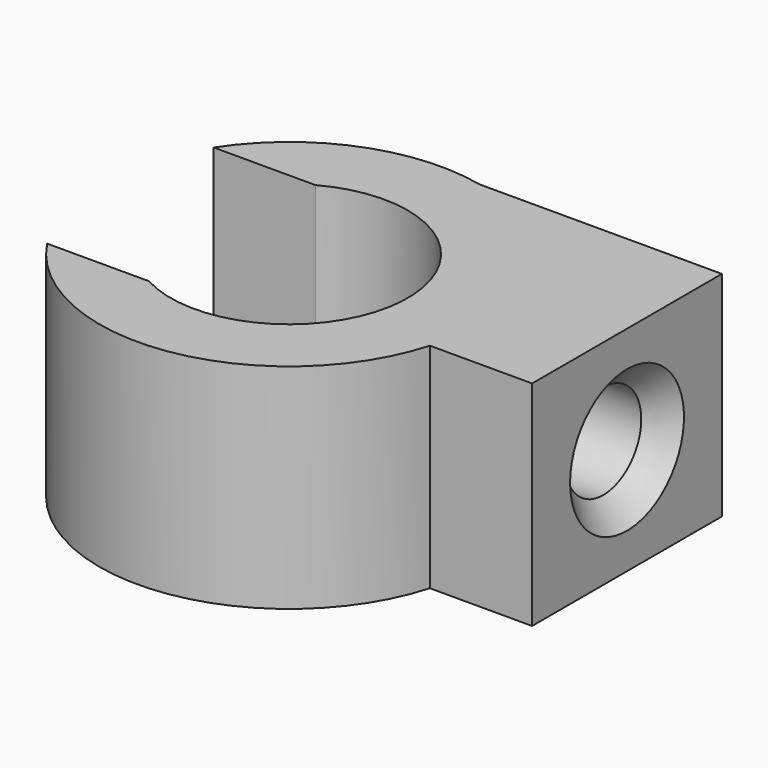
from build123d import *

# Parameters (mm, degrees)
F1_DEPTH       = 4.5
F3_D           = 2
F3_DEPTH       = 5
F3_CSINK_D     = 3
F3_CSINK_ANGLE = 90
F3_TIP         = 0.600860619


with BuildPart() as f1:
    # F0 (on Top) → F1 (new body)
    with BuildSketch(Plane.XY):
        with BuildLine():
            ThreePointArc((-1.2, 2.1931712199), (2.5, 0), (-1.2, -2.1931712199))
            Line((-1.2, -2.1931712199), (-3.3451457367, -2.1931712199))
            ThreePointArc((-3.3451457367, -2.1931712199), (0.6011769462, -3.9545652453), (3.8457769046, -1.1))
            ThreePointArc((3.8457769046, -1.1), (3.4429784549, 2.0361481673), (0.8888194417, 3.9))
            ThreePointArc((0.8888194417, 3.9), (-1.4955603759, 3.7098920688), (-3.3451457367, 2.1931712199))
            Line((-3.3451457367, 2.1931712199), (-1.2, 2.1931712199))
        make_face()
        with BuildLine():
            ThreePointArc((0.8888194417, 3.9), (3.4429784549, 2.0361481673), (3.8457769046, -1.1))
            Line((3.8457769046, -1.1), (6, -1.1))
            Line((6, -1.1), (6, 3.9))
            Line((6, 3.9), (0.8888194417, 3.9))
        make_face()
    extrude(amount=F1_DEPTH)

    # F3
    with Locations(Plane.YZ.offset(6)):
        with Locations((1.4, 2.25)):
            CounterSinkHole(F3_D / 2, F3_CSINK_D / 2, depth=F3_DEPTH, counter_sink_angle=F3_CSINK_ANGLE)
            with Locations((0, 0, -(F3_DEPTH + F3_TIP / 2))):  # 118° drill point
                Cone(0, F3_D / 2, F3_TIP, mode=Mode.SUBTRACT)


solid = f1.part
